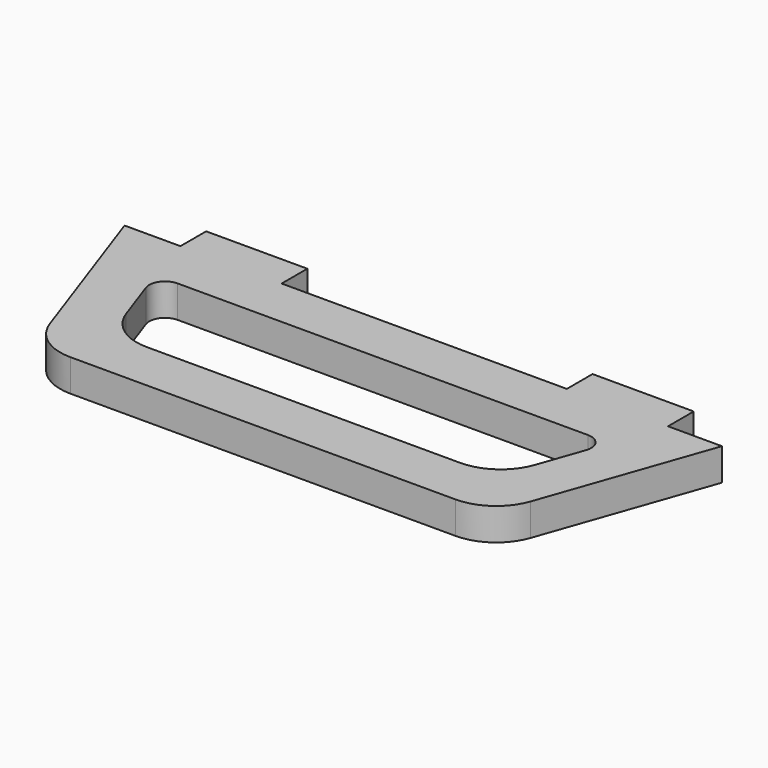
from build123d import *

# Parameters (mm, degrees)
F1_DEPTH = 3.175


with BuildPart() as f1:
    # F0 (on Top) → F1 (new body)
    with BuildSketch(Plane.XY):
        with BuildLine():
            Line((27.01547, 4.237531), (21.689913, 4.237531))
            Line((21.689913, 4.237531), (21.689913, 7.412531))
            Line((21.689913, 7.412531), (11.689913, 7.412531))
            Line((11.689913, 7.412531), (11.689913, 4.237531))
            Line((11.689913, 4.237531), (-16.491257, 4.237531))
            Line((-16.491257, 4.237531), (-16.491257, 7.412531))
            Line((-16.491257, 7.412531), (-26.491257, 7.412531))
            Line((-26.491257, 7.412531), (-26.491257, 4.237531))
            Line((-26.491257, 4.237531), (-32.01359, 4.237531))
            Line((-32.01359, 4.237531), (-26.255299, -12.204799))
            ThreePointArc((-26.255299, -12.204799), (-24.429136, -14.630345), (-21.536318, -15.552159))
            Line((-21.536318, -15.552159), (16.538198, -15.552159))
            ThreePointArc((16.538198, -15.552159), (19.431017, -14.630345), (21.257179, -12.204799))
            Line((21.257179, -12.204799), (27.01547, 4.237531))
        make_face()
        with BuildLine():
            ThreePointArc((17.710482, -7.204799), (15.884319, -9.630345), (12.991501, -10.552159))
            Line((12.991501, -10.552159), (-17.989621, -10.552159))
            ThreePointArc((-17.989621, -10.552159), (-20.882439, -9.630345), (-22.708601, -7.204799))
            Line((-22.708601, -7.204799), (-24.242376, -2.825232))
            ThreePointArc((-24.242376, -2.825232), (-24.043687, -1.415837), (-22.779177, -0.76247))
            Line((-22.779177, -0.76247), (-7.49906, -0.76247))
            Line((-7.49906, -0.76247), (2.50094, -0.76247))
            Line((2.50094, -0.76247), (17.781058, -0.76247))
            ThreePointArc((17.781058, -0.76247), (19.045567, -1.415837), (19.244256, -2.825232))
            Line((19.244256, -2.825232), (17.710482, -7.204799))
        make_face(mode=Mode.SUBTRACT)
    extrude(amount=F1_DEPTH)


solid = f1.part
